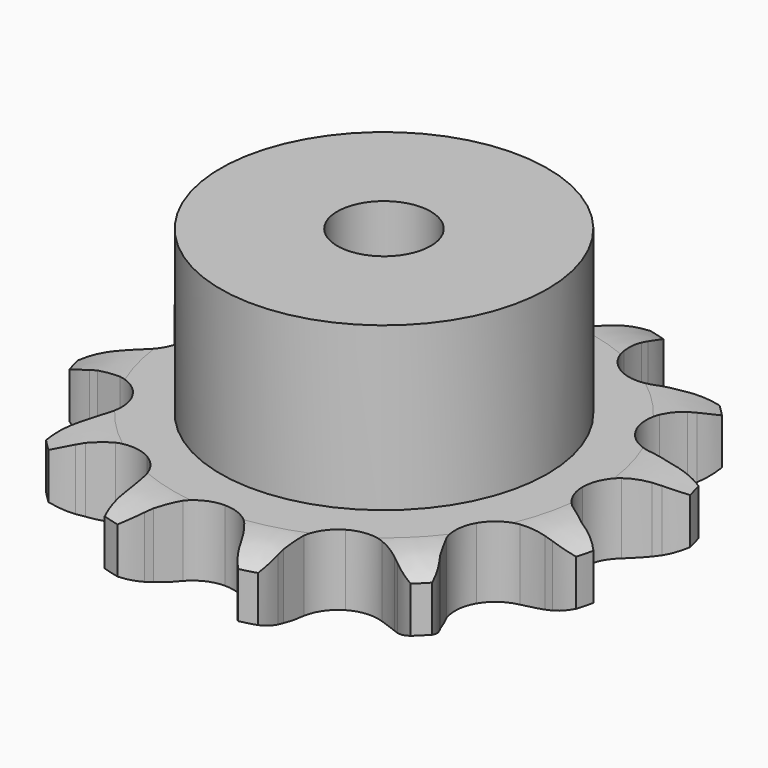
from build123d import *

# Parameters (mm, degrees)
PAD_DEPTH         = 9.1
SKETCH001_R       = 21
PAD001_DEPTH      = 30
SKETCH002_R       = 6
POCKET_DEPTH      = 0.001
POCKET_DEPTH_BACK = -30.001


with BuildPart() as part:
    # Sprocket → Pad (new body)
    with BuildSketch(Plane.XY):
        with BuildLine():
            ThreePointArc((-9.173595, 34.236322), (-7.395683, 32.745267), (-6.083087, 30.831812))
            Line((-6.083087, 30.831812), (-5.633436, 29.936484))
            ThreePointArc((-5.633436, 29.936484), (-4.861767, 28.599914), (-3.94015, 27.361967))
            ThreePointArc((-3.94015, 27.361967), (-2.173737, 26.006551), (0, 25.524645))
            ThreePointArc((0, 25.524645), (2.173737, 26.006551), (3.94015, 27.361967))
            ThreePointArc((3.94015, 27.361967), (4.861767, 28.599914), (5.633436, 29.936484))
            Line((5.633436, 29.936484), (6.083087, 30.831812))
            ThreePointArc((6.083087, 30.831812), (7.395683, 32.745267), (9.173595, 34.236322))
            ThreePointArc((9.173595, 34.236322), (9.967784, 32.056074), (10.147798, 29.742676))
            Line((10.147798, 29.742676), (10.089543, 28.742474))
            ThreePointArc((10.089543, 28.742474), (10.089543, 27.199136), (10.268714, 25.666233))
            ThreePointArc((10.268714, 25.666233), (11.120764, 23.609202), (12.762322, 22.104991))
            ThreePointArc((12.762322, 22.104991), (14.885787, 21.435465), (17.093253, 21.726084))
            Line((17.093253, 21.726084), (19.846941, 23.109038))
            ThreePointArc((19.846941, 23.109038), (20.26028, 23.392215), (20.684014, 23.659589))
            ThreePointArc((20.684014, 23.659589), (22.777483, 24.660392), (25.062727, 25.062727))
            ThreePointArc((25.062727, 25.062727), (24.660392, 22.777483), (23.659589, 20.684014))
            Line((23.659589, 20.684014), (23.109038, 19.846941))
            ThreePointArc((23.109038, 19.846941), (22.337369, 18.510371), (21.726084, 17.093253))
            ThreePointArc((21.726084, 17.093253), (21.435465, 14.885787), (22.104991, 12.762322))
            ThreePointArc((22.104991, 12.762322), (23.609202, 11.120764), (25.666233, 10.268714))
            Line((25.666233, 10.268714), (28.742474, 10.089543))
            ThreePointArc((28.742474, 10.089543), (29.242025, 10.128113), (29.742676, 10.147798))
            ThreePointArc((29.742676, 10.147798), (32.056074, 9.967784), (34.236322, 9.173595))
            ThreePointArc((34.236322, 9.173595), (32.745267, 7.395683), (30.831812, 6.083087))
            Line((30.831812, 6.083087), (29.936484, 5.633436))
            ThreePointArc((29.936484, 5.633436), (28.599914, 4.861767), (27.361967, 3.94015))
            ThreePointArc((27.361967, 3.94015), (26.006551, 2.173737), (25.524645, 0))
            ThreePointArc((25.524645, 0), (26.006551, -2.173737), (27.361967, -3.94015))
            Line((27.361967, -3.94015), (29.936484, -5.633436))
            ThreePointArc((29.936484, -5.633436), (30.388393, -5.84981), (30.831812, -6.083087))
            ThreePointArc((30.831812, -6.083087), (32.745267, -7.395683), (34.236322, -9.173595))
            ThreePointArc((34.236322, -9.173595), (32.056074, -9.967784), (29.742676, -10.147798))
            Line((29.742676, -10.147798), (28.742474, -10.089543))
            ThreePointArc((28.742474, -10.089543), (27.199136, -10.089543), (25.666233, -10.268714))
            ThreePointArc((25.666233, -10.268714), (23.609202, -11.120764), (22.104991, -12.762322))
            ThreePointArc((22.104991, -12.762322), (21.435465, -14.885787), (21.726084, -17.093253))
            Line((21.726084, -17.093253), (23.109038, -19.846941))
            ThreePointArc((23.109038, -19.846941), (23.392215, -20.26028), (23.659589, -20.684014))
            ThreePointArc((23.659589, -20.684014), (24.660392, -22.777483), (25.062727, -25.062727))
            ThreePointArc((25.062727, -25.062727), (22.777483, -24.660392), (20.684014, -23.659589))
            Line((20.684014, -23.659589), (19.846941, -23.109038))
            ThreePointArc((19.846941, -23.109038), (18.510371, -22.337369), (17.093253, -21.726084))
            ThreePointArc((17.093253, -21.726084), (14.885787, -21.435465), (12.762322, -22.104991))
            ThreePointArc((12.762322, -22.104991), (11.120764, -23.609202), (10.268714, -25.666233))
            Line((10.268714, -25.666233), (10.089543, -28.742474))
            ThreePointArc((10.089543, -28.742474), (10.128113, -29.242025), (10.147798, -29.742676))
            ThreePointArc((10.147798, -29.742676), (9.967784, -32.056074), (9.173595, -34.236322))
            ThreePointArc((9.173595, -34.236322), (7.395683, -32.745267), (6.083087, -30.831812))
            Line((6.083087, -30.831812), (5.633436, -29.936484))
            ThreePointArc((5.633436, -29.936484), (4.861767, -28.599914), (3.94015, -27.361967))
            ThreePointArc((3.94015, -27.361967), (2.173737, -26.006551), (0, -25.524645))
            ThreePointArc((0, -25.524645), (-2.173737, -26.006551), (-3.94015, -27.361967))
            Line((-3.94015, -27.361967), (-5.633436, -29.936484))
            ThreePointArc((-5.633436, -29.936484), (-5.84981, -30.388393), (-6.083087, -30.831812))
            ThreePointArc((-6.083087, -30.831812), (-7.395683, -32.745267), (-9.173595, -34.236322))
            ThreePointArc((-9.173595, -34.236322), (-9.967784, -32.056074), (-10.147798, -29.742676))
            Line((-10.147798, -29.742676), (-10.089543, -28.742474))
            ThreePointArc((-10.089543, -28.742474), (-10.089543, -27.199136), (-10.268714, -25.666233))
            ThreePointArc((-10.268714, -25.666233), (-11.120764, -23.609202), (-12.762322, -22.104991))
            ThreePointArc((-12.762322, -22.104991), (-14.885787, -21.435465), (-17.093253, -21.726084))
            Line((-17.093253, -21.726084), (-19.846941, -23.109038))
            ThreePointArc((-19.846941, -23.109038), (-20.26028, -23.392215), (-20.684014, -23.659589))
            ThreePointArc((-20.684014, -23.659589), (-22.777483, -24.660392), (-25.062727, -25.062727))
            ThreePointArc((-25.062727, -25.062727), (-24.660392, -22.777483), (-23.659589, -20.684014))
            Line((-23.659589, -20.684014), (-23.109038, -19.846941))
            ThreePointArc((-23.109038, -19.846941), (-22.337369, -18.510371), (-21.726084, -17.093253))
            ThreePointArc((-21.726084, -17.093253), (-21.435465, -14.885787), (-22.104991, -12.762322))
            ThreePointArc((-22.104991, -12.762322), (-23.609202, -11.120764), (-25.666233, -10.268714))
            Line((-25.666233, -10.268714), (-28.742474, -10.089543))
            ThreePointArc((-28.742474, -10.089543), (-29.242025, -10.128113), (-29.742676, -10.147798))
            ThreePointArc((-29.742676, -10.147798), (-32.056074, -9.967784), (-34.236322, -9.173595))
            ThreePointArc((-34.236322, -9.173595), (-32.745267, -7.395683), (-30.831812, -6.083087))
            Line((-30.831812, -6.083087), (-29.936484, -5.633436))
            ThreePointArc((-29.936484, -5.633436), (-28.599914, -4.861767), (-27.361967, -3.94015))
            ThreePointArc((-27.361967, -3.94015), (-26.006551, -2.173737), (-25.524645, 0))
            ThreePointArc((-25.524645, 0), (-26.006551, 2.173737), (-27.361967, 3.94015))
            Line((-27.361967, 3.94015), (-29.936484, 5.633436))
            ThreePointArc((-29.936484, 5.633436), (-30.388393, 5.84981), (-30.831812, 6.083087))
            ThreePointArc((-30.831812, 6.083087), (-32.745267, 7.395683), (-34.236322, 9.173595))
            ThreePointArc((-34.236322, 9.173595), (-32.056074, 9.967784), (-29.742676, 10.147798))
            Line((-29.742676, 10.147798), (-28.742474, 10.089543))
            ThreePointArc((-28.742474, 10.089543), (-27.199136, 10.089543), (-25.666233, 10.268714))
            ThreePointArc((-25.666233, 10.268714), (-23.609202, 11.120764), (-22.104991, 12.762322))
            ThreePointArc((-22.104991, 12.762322), (-21.435465, 14.885787), (-21.726084, 17.093253))
            Line((-21.726084, 17.093253), (-23.109038, 19.846941))
            ThreePointArc((-23.109038, 19.846941), (-23.392215, 20.26028), (-23.659589, 20.684014))
            ThreePointArc((-23.659589, 20.684014), (-24.660392, 22.777483), (-25.062727, 25.062727))
            ThreePointArc((-25.062727, 25.062727), (-22.777483, 24.660392), (-20.684014, 23.659589))
            Line((-20.684014, 23.659589), (-19.846941, 23.109038))
            ThreePointArc((-19.846941, 23.109038), (-18.510371, 22.337369), (-17.093253, 21.726084))
            ThreePointArc((-17.093253, 21.726084), (-14.885787, 21.435465), (-12.762322, 22.104991))
            ThreePointArc((-12.762322, 22.104991), (-11.120764, 23.609202), (-10.268714, 25.666233))
            Line((-10.268714, 25.666233), (-10.089543, 28.742474))
            ThreePointArc((-10.089543, 28.742474), (-10.128113, 29.242025), (-10.147798, 29.742676))
            ThreePointArc((-10.147798, 29.742676), (-9.967784, 32.056074), (-9.173595, 34.236322))
        make_face()
    extrude(amount=PAD_DEPTH)

    # Sketch → Groove (revolve, cut)
    with BuildSketch(Plane.XZ):
        with BuildLine():
            Line((27.025762, 0), (34, 0))
            Line((40.974238, 0), (34, 0))
            Line((40.974238, 9.1), (40.974238, 0))
            Line((34, 9.1), (40.974238, 9.1))
            Line((27.025762, 9.1), (34, 9.1))
            ThreePointArc((34, 7.5), (30.60347, 8.694871), (27.025762, 9.1))
            Line((34, 1.6), (34, 7.5))
            ThreePointArc((27.025762, 0), (30.60347, 0.405129), (34, 1.6))
        make_face()
    revolve(axis=Axis((0, 0, 0), (0, 0, 1)), mode=Mode.SUBTRACT)

    # Sketch001 → Pad001 (join)
    with BuildSketch(Plane.XY):
        Circle(SKETCH001_R)
    extrude(amount=PAD001_DEPTH)

    # Sketch002 → Pocket (cut, two sides)
    with BuildSketch(Plane.XY) as pocket_sk:
        Circle(SKETCH002_R)
    extrude(amount=-POCKET_DEPTH, mode=Mode.SUBTRACT)
    extrude(pocket_sk.sketch, amount=-POCKET_DEPTH_BACK, mode=Mode.SUBTRACT)


solid = part.part
